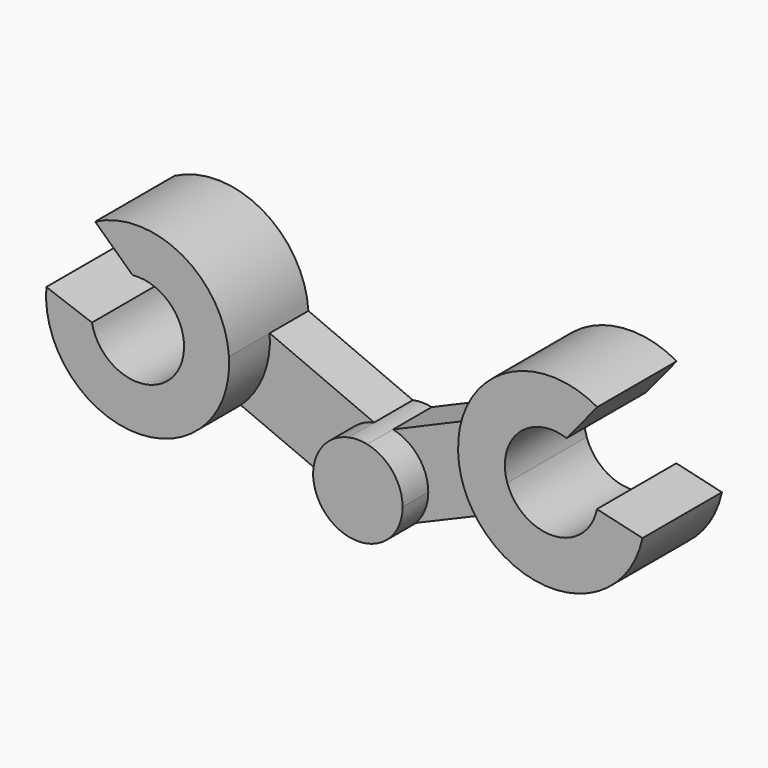
from build123d import *

# Parameters (mm, degrees)
F1_DEPTH = 3.12
F2_DEPTH = 2.53
F3_DEPTH = 1.52


with BuildPart() as f1:
    # F0 (on Front) → F1 (new body)
    with BuildSketch(Plane.XZ):
        with BuildLine():
            ThreePointArc((7.994299, 5.145756), (5.165446, 5.179012), (3.626637, 2.805075))
            Line((3.626637, 2.805075), (3.631367, 2.807108))
            ThreePointArc((3.631367, 2.807108), (3.804802, 1.556995), (4.498737, 0.502804))
            ThreePointArc((4.498737, 0.502804), (7.394721, -0.210037), (9.415493, 1.983441))
            Line((9.415493, 1.983441), (7.9835, 2.320658))
            ThreePointArc((7.9835, 2.320658), (6.649166, 1.139412), (5.166645, 2.128311))
            ThreePointArc((5.166645, 2.128311), (5.523041, 3.634079), (7.032653, 3.97383))
            Line((7.032653, 3.97383), (7.994299, 5.145756))
        make_face()
        with BuildLine():
            ThreePointArc((-4.488759, 0.490969), (-3.775142, 1.530496), (-3.578517, 2.775969))
            ThreePointArc((-3.578517, 2.775969), (-5.037216, 5.102351), (-7.782753, 5.145756))
            Line((-7.782753, 5.145756), (-6.608078, 4.047432))
            ThreePointArc((-6.608078, 4.047432), (-5.275645, 1.728491), (-7.883748, 2.320658))
            Line((-7.883748, 2.320658), (-9.316716, 2.839275))
            ThreePointArc((-9.316716, 2.839275), (-7.708383, 0.00877), (-4.488759, 0.490969))
        make_face()
    extrude(amount=F1_DEPTH)


with BuildPart() as f2:
    # F0 (on Front) → F2 (new body)
    with BuildSketch(Plane.XZ):
        with BuildLine():
            ThreePointArc((1.0042, -0.982654), (1.300947, -0.530624), (1.405, 0))
            ThreePointArc((1.405, 0), (1.093303, 0.882447), (0.296512, 1.373356))
            ThreePointArc((0.296512, 1.373356), (0, 1.405), (-0.296512, 1.373356))
            ThreePointArc((-0.296512, 1.373356), (-1.345607, 0.404187), (-1.0042, -0.982654))
            ThreePointArc((-1.0042, -0.982654), (0, -1.405), (1.0042, -0.982654))
        make_face()
    extrude(amount=F2_DEPTH)


with BuildPart() as f3:
    # F0 (on Front) → F3 (new body)
    with BuildSketch(Plane.XZ):
        with BuildLine():
            ThreePointArc((-1.0042, -0.982654), (-1.345607, 0.404187), (-0.296512, 1.373356))
            Line((-0.296512, 1.373356), (-3.578517, 2.775969))
            ThreePointArc((-3.578517, 2.775969), (-3.775142, 1.530496), (-4.488759, 0.490969))
            Line((-4.488759, 0.490969), (-1.0042, -0.982654))
        make_face()
        with BuildLine():
            ThreePointArc((0.296512, 1.373356), (1.093303, 0.882447), (1.405, 0))
            ThreePointArc((1.405, 0), (1.300947, -0.530624), (1.0042, -0.982654))
            Line((1.0042, -0.982654), (4.498737, 0.502804))
            ThreePointArc((4.498737, 0.502804), (3.804802, 1.556995), (3.631367, 2.807108))
            Line((3.631367, 2.807108), (3.626637, 2.805075))
            Line((3.626637, 2.805075), (0.296512, 1.373356))
        make_face()
    extrude(amount=F3_DEPTH)


solid = Compound([f1.part, f2.part, f3.part])
